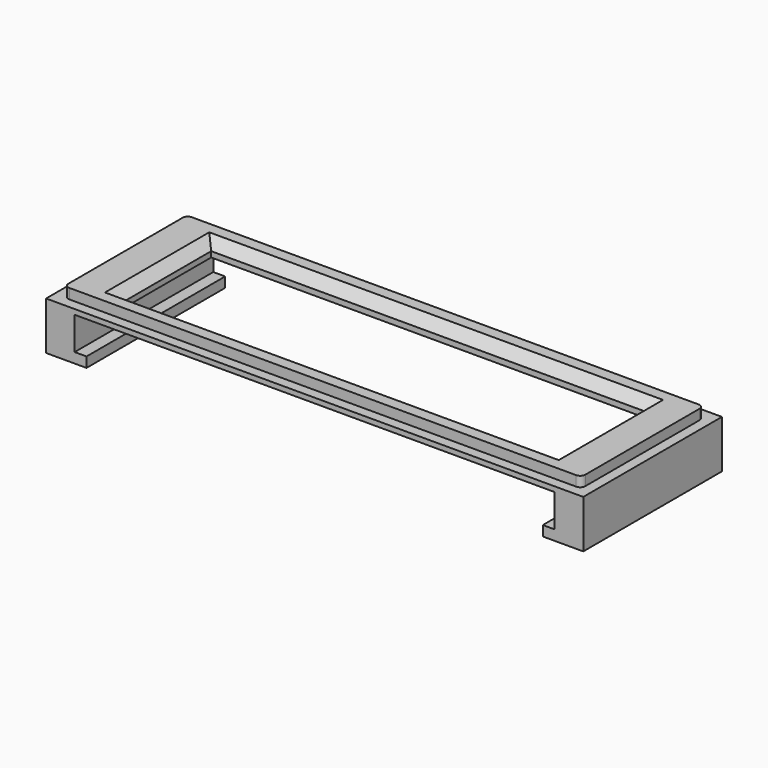
from build123d import *

# Parameters (mm, degrees)
PAD_DEPTH       = 2
SKETCH001_W     = 86
SKETCH001_H     = 22
POCKET_DEPTH    = 5
SKETCH002_W     = 106.3
SKETCH002_H     = 34.3
SKETCH002_W_2   = 86
SKETCH002_H_2   = 22
PAD001_DEPTH    = 1
CHAMFER_SIZE    = 1.9
SKETCH003_W     = 5.65
SKETCH003_H     = 34.3
PAD002_DEPTH    = 6.5
SKETCH004_W     = 8
SKETCH004_H     = 34.3
PAD003_DEPTH    = 2
SKETCH005_R     = 1.6
POCKET001_DEPTH = 5


with BuildPart() as part:
    # Sketch → Pad (new body)
    with BuildSketch(Plane.XY):
        with BuildLine():
            Line((1, 0), (101.3, 0))
            ThreePointArc((101.3, 0), (102.007107, 0.292893), (102.3, 1))
            Line((102.3, 1), (102.3, 29.3))
            ThreePointArc((102.3, 29.3), (102.007107, 30.007107), (101.3, 30.3))
            Line((101.3, 30.3), (1, 30.3))
            ThreePointArc((1, 30.3), (0.292893, 30.007107), (0, 29.3))
            Line((0, 29.3), (0, 1))
            ThreePointArc((0, 1), (0.292893, 0.292893), (1, 0))
        make_face()
    extrude(amount=PAD_DEPTH)

    # Sketch001 (on Face10 of Pad) → Pocket (cut)
    with BuildSketch(Plane.XY.offset(2)):
        with Locations((51.15, 15.15)):
            Rectangle(SKETCH001_W, SKETCH001_H)
    extrude(amount=-POCKET_DEPTH, mode=Mode.SUBTRACT)

    # Sketch002 (on Face4 of Pocket) → Pad001 (join)
    with BuildSketch(Plane(origin=(0, 0, 0), x_dir=(1, 0, 0), z_dir=(0, 0, -1))):
        with Locations((51.15, -15.15)):
            Rectangle(SKETCH002_W, SKETCH002_H)
        with Locations((51.15, -15.15)):
            Rectangle(SKETCH002_W_2, SKETCH002_H_2, mode=Mode.SUBTRACT)
    extrude(amount=PAD001_DEPTH)

    # Chamfer
    chamfer_edges = [part.edges().sort_by_distance(p)[0] for p in [
        (51.15, 26.15, 2),
        (8.15, 15.15, 2),
        (51.15, 4.15, 2),
        (94.15, 15.15, 2),
    ]]
    chamfer(chamfer_edges, length=CHAMFER_SIZE)

    # Sketch003 (on Face27 of Chamfer) → Pad002 (join)
    with BuildSketch(Plane(origin=(0, 0, -1), x_dir=(1, 0, 0), z_dir=(0, 0, -1))):
        with Locations((101.475, -15.15)):
            Rectangle(SKETCH003_W, SKETCH003_H)
        with Locations((0.825, -15.15)):
            Rectangle(SKETCH003_W, SKETCH003_H)
    extrude(amount=PAD002_DEPTH)

    # Sketch004 (on Face36 of Pad002) → Pad003 (join)
    with BuildSketch(Plane(origin=(0, 0, -7.5), x_dir=(1, 0, 0), z_dir=(0, 0, -1))):
        with Locations((100.3, -15.15)):
            Rectangle(SKETCH004_W, SKETCH004_H)
        with Locations((2, -15.15)):
            Rectangle(SKETCH004_W, SKETCH004_H)
    extrude(amount=PAD003_DEPTH)

    # Sketch005 (on Face45 of Pad003) → Pocket001 (cut)
    with BuildSketch(Plane(origin=(0, 0, -9.5), x_dir=(1, 0, 0), z_dir=(0, 0, -1))):
        with Locations((0.89357, -15.708431)):
            Circle(SKETCH005_R)
        with Locations((101.41729, -15.243322)):
            Circle(SKETCH005_R)
    extrude(amount=-POCKET001_DEPTH, mode=Mode.SUBTRACT)


solid = part.part
